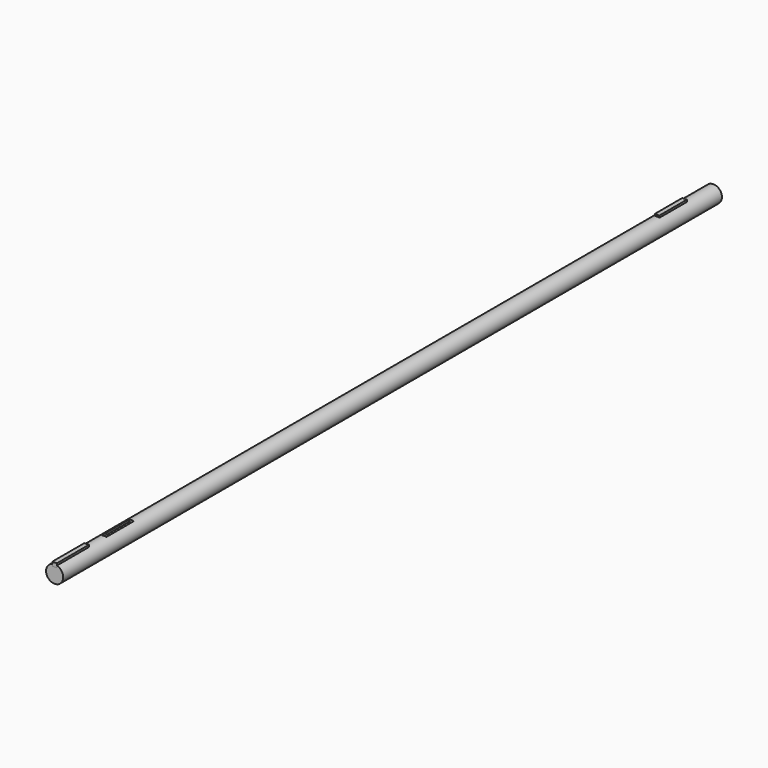
from build123d import *

# Parameters (mm, degrees)
F0_R          = 15
F1_DEPTH      = 743
F1_DEPTH_BACK = 698
F3_W          = 8
F3_H          = 60
F3_H_2        = 70
F4_DEPTH      = 4
F4_FACE_W     = 8
F4_FACE_H     = 70
F4_FACE_H_2   = 60
F5_DEPTH      = 7


with BuildPart() as f1:
    # F0 (on Front) → F1 (new body, two sides)
    with BuildSketch(Plane.XZ) as f1_sk:
        Circle(F0_R)
    extrude(amount=F1_DEPTH)
    extrude(f1_sk.sketch, amount=-F1_DEPTH_BACK)

    # F3 (on offset) → F4 (cut)
    with BuildSketch(Plane.XY.offset(15)):
        with Locations((0, 605)):
            Rectangle(F3_W, F3_H)
        with Locations((0, -605)):
            Rectangle(F3_W, F3_H)
        with Locations((0, -708)):
            Rectangle(F3_W, F3_H_2)
    extrude(amount=-F4_DEPTH, mode=Mode.SUBTRACT)


with BuildPart() as f5:
    # F4_face (on face) → F5 (new body)
    with BuildSketch(Plane(origin=(0, -708, 11), x_dir=(1, 0, 0), z_dir=(0, 0, 1))):
        Rectangle(F4_FACE_W, F4_FACE_H)
        with Locations((0, 1313)):
            Rectangle(F4_FACE_W, F4_FACE_H_2)
    extrude(amount=F5_DEPTH)


solid = Compound([f1.part, f5.part])
